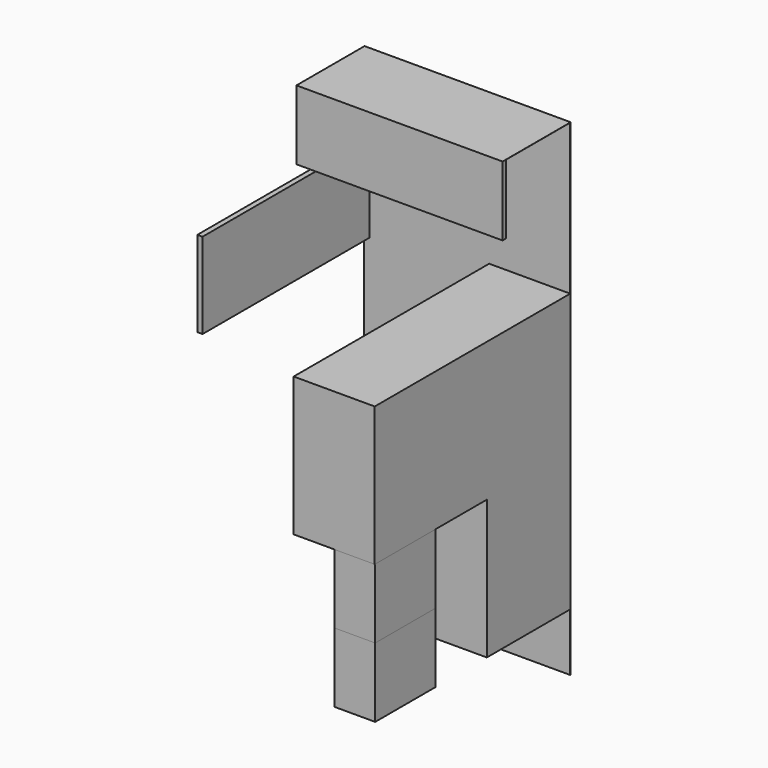
from build123d import *

# Parameters (mm, degrees)
F0_W      = 1780
F0_H      = 4200
F1_DEPTH  = 2.5
F2_W      = 1780
F2_H      = 600
F3_DEPTH  = 730
F4_W      = 1780
F4_H      = 695
F5_DEPTH  = 599
F6_W      = 700
F6_H      = 600
F7_DEPTH  = 2110
F8_W      = 700
F8_H      = 600
F9_DEPTH  = 2110
F10_W     = 700
F10_H     = 600
F11_DEPTH = 900
F12_W     = 700
F12_H     = 600
F13_DEPTH = 900
F14_W     = 650
F14_H     = 600
F15_DEPTH = 350
F16_W     = 650
F16_H     = 600
F17_DEPTH = 350
F6_W_2    = 45
F6_H_2    = 740
F18_DEPTH = 1800


with BuildPart() as f1:
    # F0 (on Front) → F1 (new body, symmetric)
    with BuildSketch(Plane.XZ):
        Rectangle(F0_W, F0_H)
    extrude(amount=F1_DEPTH, both=True)

    # F2 (on face) → F3 (join)
    with BuildSketch(Plane.XZ.offset(2.5)):
        with Locations((0, 1800)):
            Rectangle(F2_W, F2_H)
    extrude(amount=F3_DEPTH)

    # F4 (on face) → F5 (cut)
    with BuildSketch(Plane(origin=(0, 0, 1500), x_dir=(1, 0, 0), z_dir=(0, 0, -1))):
        with Locations((0, 350)):
            Rectangle(F4_W, F4_H)
    extrude(amount=-F5_DEPTH, mode=Mode.SUBTRACT)

    # F6 (on face) → F7 (join)
    with BuildSketch(Plane.XZ.offset(2.5)):
        with Locations((540, 499)):
            Rectangle(F6_W, F6_H)
    extrude(amount=F7_DEPTH)

    # F8 (on face) → F9 (join)
    with BuildSketch(Plane.XZ.offset(2.5)):
        with Locations((540, -101)):
            Rectangle(F8_W, F8_H)
    extrude(amount=F9_DEPTH)

    # F10 (on face) → F11 (join)
    with BuildSketch(Plane.XZ.offset(2.5)):
        with Locations((540, -701)):
            Rectangle(F10_W, F10_H)
    extrude(amount=F11_DEPTH)

    # F12 (on face) → F13 (join)
    with BuildSketch(Plane.XZ.offset(2.5)):
        with Locations((540, -1301)):
            Rectangle(F12_W, F12_H)
    extrude(amount=F13_DEPTH)

    # F6 (on face) → F18 (join)
    with BuildSketch(Plane.XZ.offset(2.5)):
        with Locations((-867.5, 1029)):
            Rectangle(F6_W_2, F6_H_2)
    extrude(amount=F18_DEPTH)


with BuildPart() as f15:
    # F14 (on face) → F15 (new body)
    with BuildSketch(Plane.YZ.offset(890)):
        with Locations((-1782.5, -701)):
            Rectangle(F14_W, F14_H)
    extrude(amount=-F15_DEPTH)


with BuildPart() as f17:
    # F16 (on face) → F17 (new body)
    with BuildSketch(Plane.YZ.offset(890)):
        with Locations((-1782.5, -1301)):
            Rectangle(F16_W, F16_H)
    extrude(amount=-F17_DEPTH)


solid = Compound([f1.part, f15.part, f17.part])
